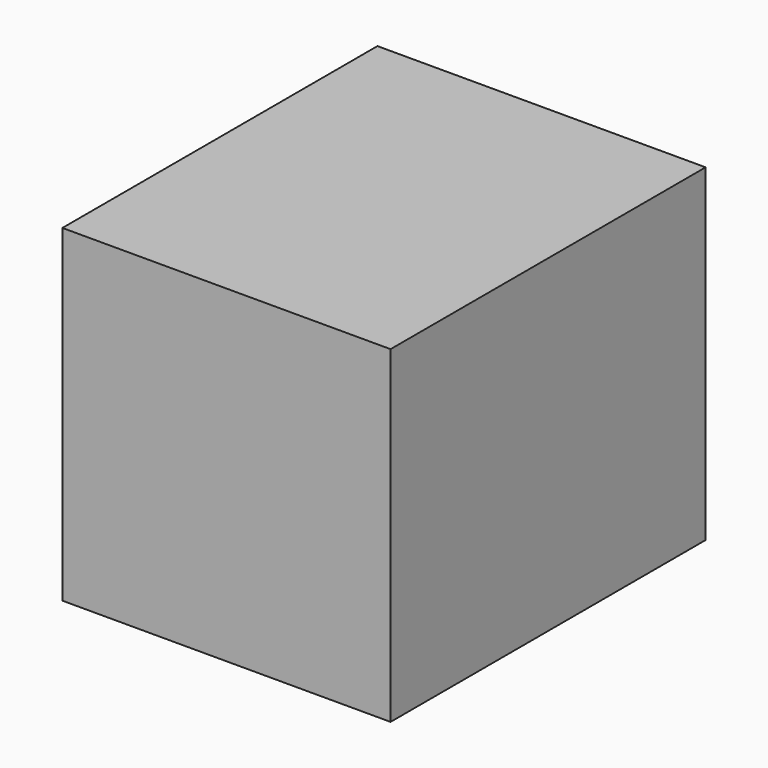
from build123d import *

# Parameters (mm, degrees)
SKETCH_W  = 500
SKETCH_H  = 600
PAD_DEPTH = 500


with BuildPart() as part:
    # Sketch → Pad (new body)
    with BuildSketch(Plane.XY):
        with Locations((250, 300)):
            Rectangle(SKETCH_W, SKETCH_H)
    extrude(amount=PAD_DEPTH)


solid = part.part
